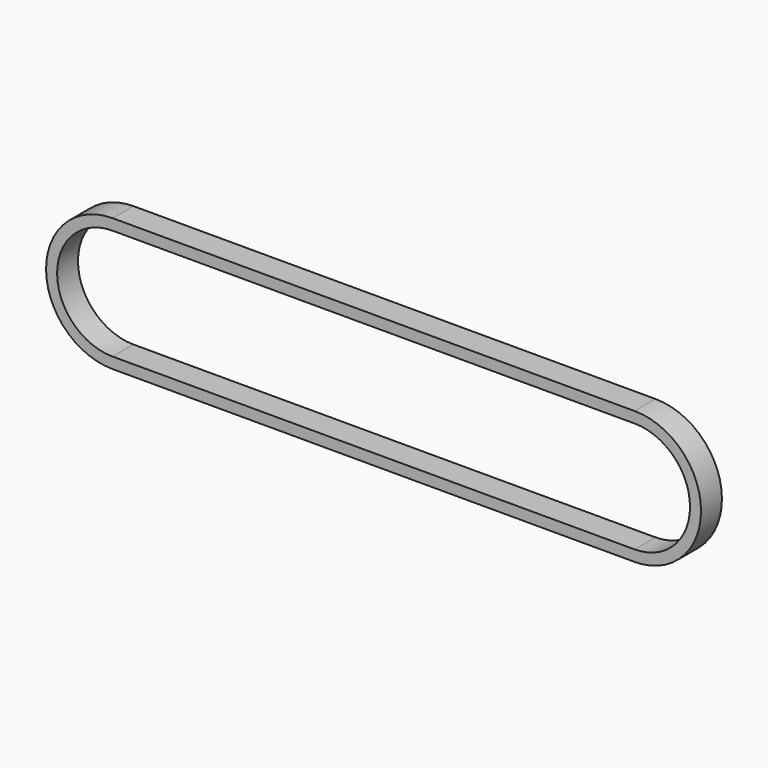
from build123d import *

# Parameters (mm, degrees)
F1_W = 9
F1_H = 3.8


with BuildPart() as f2:
    # F2: sweep along a path in F0
    with BuildLine(Plane.XZ) as f2_path:
        ThreePointArc((0, 21), (-21, 0), (0, -21))
        Line((0, -21), (180, -21))
        ThreePointArc((180, -21), (201, 0), (180, 21))
        Line((180, 21), (0, 21))
    # F1 (on Right) → F2 (sweep)
    with BuildSketch(Plane.YZ):
        with Locations((0, 21)):
            Rectangle(F1_W, F1_H)
    sweep(path=f2_path.line)


solid = f2.part
